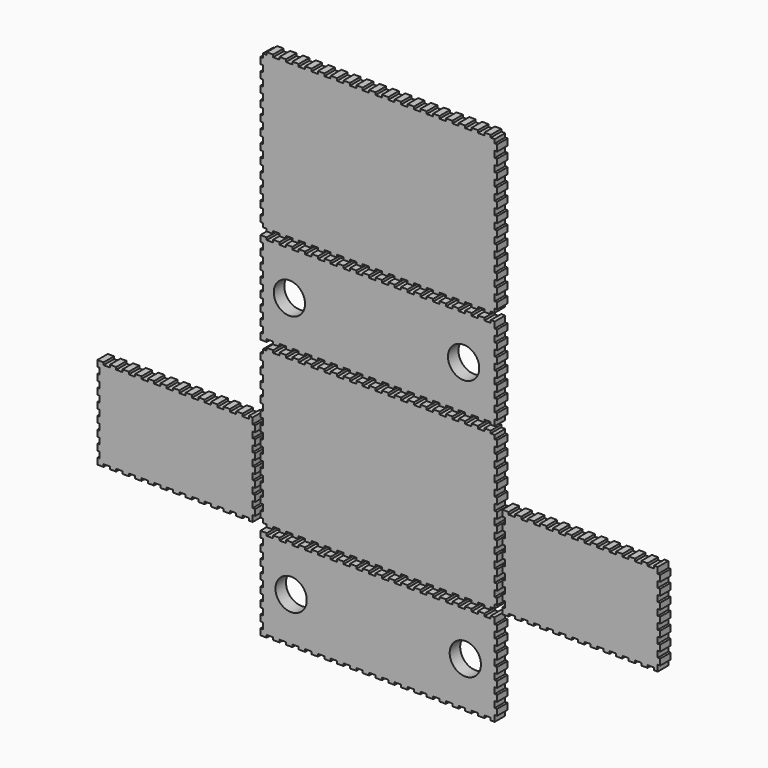
from build123d import *

# Parameters (mm, degrees)
F1_DEPTH = 25.4
F2_R     = 30.1625
F3_DEPTH = 25.4
F4_R     = 30.1625
F5_DEPTH = 314.96


with BuildPart() as f1:
    # F0 (on Front) → F1 (new body)
    with BuildSketch(Plane.XZ):
        Polygon((-228.600229, -485.748533), (-228.600229, -497.601011), (-216.243129, -497.601011), (-216.243129, -492.838511), (-203.886029, -492.838511), (-203.886029, -497.601011), (-191.531469, -497.601011), (-191.531469, -492.838511), (-179.174369, -492.838511), (-179.174369, -497.601011), (-166.814729, -497.601011), (-166.814729, -492.838511), (-154.457629, -492.838511), (-154.457629, -497.601011), (-142.103069, -497.601011), (-142.103069, -492.838511), (-129.745969, -492.838511), (-129.745969, -497.601011), (-117.388869, -497.601011), (-117.388869, -492.838511), (-105.034309, -492.838511), (-105.034309, -497.601011), (-92.677209, -497.601011), (-92.677209, -492.838511), (-80.317569, -492.838511), (-80.317569, -497.601011), (-67.963009, -497.601011), (-67.963009, -492.838511), (-55.605909, -492.838511), (-55.605909, -497.601011), (-43.248809, -497.601011), (-43.248809, -492.838511), (-30.889169, -492.838511), (-30.889169, -497.601011), (-18.537149, -497.601011), (-18.537149, -492.838511), (-6.177509, -492.838511), (-6.177509, -497.601011), (6.179591, -497.601011), (6.179591, -492.838511), (18.534151, -492.838511), (18.534151, -497.601011), (30.891251, -497.601011), (30.891251, -492.838511), (43.248351, -492.838511), (43.248351, -497.601011), (55.607991, -497.601011), (55.607991, -492.838511), (67.962551, -492.838511), (67.962551, -497.601011), (80.319651, -497.601011), (80.319651, -492.838511), (92.674211, -492.838511), (92.674211, -497.601011), (105.031311, -497.601011), (105.031311, -492.838511), (117.388411, -492.838511), (117.388411, -497.601011), (129.748051, -497.601011), (129.748051, -492.838511), (142.100071, -492.838511), (142.100071, -497.601011), (154.459711, -497.601011), (154.459711, -492.838511), (166.816811, -492.838511), (166.816811, -497.601011), (179.173911, -497.601011), (179.173911, -492.838511), (191.528471, -492.838511), (191.528471, -497.601011), (203.885571, -497.601011), (203.885571, -492.838511), (216.245211, -492.838511), (216.245211, -497.601011), (223.837271, -497.601011), (223.837271, -485.748533), (228.599771, -485.748533), (228.599771, -473.894633), (223.837271, -473.894633), (223.837271, -462.041977), (228.599771, -462.041977), (228.599771, -450.188305), (223.837271, -450.188305), (223.837271, -438.334125), (228.599771, -438.334125), (228.599771, -426.481977), (223.837271, -426.481977), (223.837271, -414.628051), (228.599771, -414.628051), (228.599771, -402.775395), (223.837271, -402.775395), (223.837271, -390.921723), (228.599771, -390.921723), (228.599771, -379.067543), (223.837271, -379.067543), (223.837271, -367.215395), (228.599771, -367.215395), (228.599771, -355.361215), (223.837271, -355.361215), (223.837271, -343.508559), (228.599771, -343.508559), (228.599771, -331.654887), (223.837271, -331.654887), (223.837271, -319.800961), (216.245211, -319.800961), (216.245211, -324.563461), (203.885571, -324.563461), (203.885571, -319.800961), (191.528471, -319.800961), (191.528471, -324.563461), (179.173911, -324.563461), (179.173911, -319.800961), (166.816811, -319.800961), (166.816811, -324.563461), (154.459711, -324.563461), (154.459711, -319.800961), (142.100071, -319.800961), (142.100071, -324.563461), (129.748051, -324.563461), (129.748051, -319.800961), (117.388411, -319.800961), (117.388411, -324.563461), (105.031311, -324.563461), (105.031311, -319.800961), (92.674211, -319.800961), (92.674211, -324.563461), (80.319651, -324.563461), (80.319651, -319.800961), (67.962551, -319.800961), (67.962551, -324.563461), (55.607991, -324.563461), (55.607991, -319.800961), (43.248351, -319.800961), (43.248351, -324.563461), (30.891251, -324.563461), (30.891251, -319.800961), (18.534151, -319.800961), (18.534151, -324.563461), (6.179591, -324.563461), (6.179591, -319.800961), (-6.177509, -319.800961), (-6.177509, -324.563461), (-18.537149, -324.563461), (-18.537149, -319.800961), (-30.889169, -319.800961), (-30.889169, -324.563461), (-43.248809, -324.563461), (-43.248809, -319.800961), (-55.605909, -319.800961), (-55.605909, -324.563461), (-67.963009, -324.563461), (-67.963009, -319.800961), (-80.317569, -319.800961), (-80.317569, -324.563461), (-92.677209, -324.563461), (-92.677209, -319.800961), (-105.034309, -319.800961), (-105.034309, -324.563461), (-117.388869, -324.563461), (-117.388869, -319.800961), (-129.745969, -319.800961), (-129.745969, -324.563461), (-142.103069, -324.563461), (-142.103069, -319.800961), (-154.457629, -319.800961), (-154.457629, -324.563461), (-166.814729, -324.563461), (-166.814729, -319.800961), (-179.174369, -319.800961), (-179.174369, -324.563461), (-191.531469, -324.563461), (-191.531469, -319.800961), (-203.886029, -319.800961), (-203.886029, -324.563461), (-216.243129, -324.563461), (-216.243129, -319.800961), (-228.600229, -319.800961), (-228.600229, -331.654887), (-223.837729, -331.654887), (-223.837729, -343.508559), (-228.600229, -343.508559), (-228.600229, -355.361215), (-223.837729, -355.361215), (-223.837729, -367.215395), (-228.600229, -367.215395), (-228.600229, -379.067543), (-223.837729, -379.067543), (-223.837729, -390.921723), (-228.600229, -390.921723), (-228.600229, -402.775395), (-223.837729, -402.775395), (-223.837729, -414.628051), (-228.600229, -414.628051), (-228.600229, -426.481977), (-223.837729, -426.481977), (-223.837729, -438.334125), (-228.600229, -438.334125), (-228.600229, -450.188305), (-223.837729, -450.188305), (-223.837729, -462.041977), (-228.600229, -462.041977), (-228.600229, -473.894633), (-223.837729, -473.894633), (-223.837729, -485.748533), align=None)
        Polygon((-543.399751, -297.948071), (-543.399751, -309.802251), (-531.208234, -309.802251), (-531.208234, -305.039751), (-519.016717, -305.039751), (-519.016717, -309.802251), (-506.823955, -309.802251), (-506.823955, -305.039751), (-494.632463, -305.039751), (-494.632463, -309.802251), (-482.439701, -309.802251), (-482.439701, -305.039751), (-470.247955, -305.039751), (-470.247955, -309.802251), (-458.056463, -309.802251), (-458.056463, -305.039751), (-445.863701, -305.039751), (-445.863701, -309.802251), (-433.671955, -309.802251), (-433.671955, -305.039751), (-421.480717, -305.039751), (-421.480717, -309.802251), (-409.287701, -309.802251), (-409.287701, -305.039751), (-397.096463, -305.039751), (-397.096463, -309.802251), (-384.904717, -309.802251), (-384.904717, -305.039751), (-372.711701, -305.039751), (-372.711701, -309.802251), (-360.520463, -309.802251), (-360.520463, -305.039751), (-348.328717, -305.039751), (-348.328717, -309.802251), (-336.135955, -309.802251), (-336.135955, -305.039751), (-323.944463, -305.039751), (-323.944463, -309.802251), (-311.751701, -309.802251), (-311.751701, -305.039751), (-299.559955, -305.039751), (-299.559955, -309.802251), (-287.368209, -309.802251), (-287.368209, -305.039751), (-275.176209, -305.039751), (-275.176209, -309.802251), (-262.984209, -309.802251), (-262.984209, -305.039751), (-250.792209, -305.039751), (-250.792209, -309.802251), (-243.362709, -309.802251), (-243.362709, -297.948071), (-238.600209, -297.948071), (-238.600209, -286.094145), (-243.362709, -286.094145), (-243.362709, -274.241743), (-238.600209, -274.241743), (-238.600209, -262.387817), (-243.362709, -262.387817), (-243.362709, -250.535669), (-238.600209, -250.535669), (-238.600209, -238.681489), (-243.362709, -238.681489), (-243.362709, -226.827309), (-238.600209, -226.827309), (-238.600209, -214.975669), (-243.362709, -214.975669), (-243.362709, -203.121489), (-238.600209, -203.121489), (-238.600209, -191.269849), (-243.362709, -191.269849), (-243.362709, -179.415669), (-238.600209, -179.415669), (-238.600209, -167.561489), (-243.362709, -167.561489), (-243.362709, -155.707309), (-238.600209, -155.707309), (-238.600209, -143.855669), (-243.362709, -143.855669), (-243.362709, -132.001489), (-250.792209, -132.001489), (-250.792209, -136.763989), (-262.984209, -136.763989), (-262.984209, -132.001489), (-275.176209, -132.001489), (-275.176209, -136.763989), (-287.368209, -136.763989), (-287.368209, -132.001489), (-299.559955, -132.001489), (-299.559955, -136.763989), (-311.751701, -136.763989), (-311.751701, -132.001489), (-323.944463, -132.001489), (-323.944463, -136.763989), (-336.135955, -136.763989), (-336.135955, -132.001489), (-348.328717, -132.001489), (-348.328717, -136.763989), (-360.520463, -136.763989), (-360.520463, -132.001489), (-372.711701, -132.001489), (-372.711701, -136.763989), (-384.904717, -136.763989), (-384.904717, -132.001489), (-397.096463, -132.001489), (-397.096463, -136.763989), (-409.287701, -136.763989), (-409.287701, -132.001489), (-421.480717, -132.001489), (-421.480717, -136.763989), (-433.671955, -136.763989), (-433.671955, -132.001489), (-445.863701, -132.001489), (-445.863701, -136.763989), (-458.056463, -136.763989), (-458.056463, -132.001489), (-470.247955, -132.001489), (-470.247955, -136.763989), (-482.439701, -136.763989), (-482.439701, -132.001489), (-494.632463, -132.001489), (-494.632463, -136.763989), (-506.823955, -136.763989), (-506.823955, -132.001489), (-519.016717, -132.001489), (-519.016717, -136.763989), (-531.208234, -136.763989), (-531.208234, -132.001489), (-543.399751, -132.001489), (-543.399751, -143.855669), (-538.637251, -143.855669), (-538.637251, -155.707309), (-543.399751, -155.707309), (-543.399751, -167.561489), (-538.637251, -167.561489), (-538.637251, -179.415669), (-543.399751, -179.415669), (-543.399751, -191.269849), (-538.637251, -191.269849), (-538.637251, -203.121489), (-543.399751, -203.121489), (-543.399751, -214.975669), (-538.637251, -214.975669), (-538.637251, -226.827309), (-543.399751, -226.827309), (-543.399751, -238.681489), (-538.637251, -238.681489), (-538.637251, -250.535669), (-543.399751, -250.535669), (-543.399751, -262.387817), (-538.637251, -262.387817), (-538.637251, -274.241743), (-543.399751, -274.241743), (-543.399751, -286.094145), (-538.637251, -286.094145), (-538.637251, -297.948071), align=None)
        Polygon((-223.837729, -297.608981), (-223.837729, -305.039751), (-216.243129, -305.039751), (-216.243129, -309.802251), (-203.886029, -309.802251), (-203.886029, -305.039751), (-191.531469, -305.039751), (-191.531469, -309.802251), (-179.174369, -309.802251), (-179.174369, -305.039751), (-166.814729, -305.039751), (-166.814729, -309.802251), (-154.457629, -309.802251), (-154.457629, -305.039751), (-142.103069, -305.039751), (-142.103069, -309.802251), (-129.745969, -309.802251), (-129.745969, -305.039751), (-117.388869, -305.039751), (-117.388869, -309.802251), (-105.034309, -309.802251), (-105.034309, -305.039751), (-92.677209, -305.039751), (-92.677209, -309.802251), (-80.317569, -309.802251), (-80.317569, -305.039751), (-67.963009, -305.039751), (-67.963009, -309.802251), (-55.605909, -309.802251), (-55.605909, -305.039751), (-43.248809, -305.039751), (-43.248809, -309.802251), (-30.889169, -309.802251), (-30.889169, -305.039751), (-18.537149, -305.039751), (-18.537149, -309.802251), (-6.177509, -309.802251), (-6.177509, -305.039751), (6.179591, -305.039751), (6.179591, -309.802251), (18.534151, -309.802251), (18.534151, -305.039751), (30.891251, -305.039751), (30.891251, -309.802251), (43.248351, -309.802251), (43.248351, -305.039751), (55.607991, -305.039751), (55.607991, -309.802251), (67.962551, -309.802251), (67.962551, -305.039751), (80.319651, -305.039751), (80.319651, -309.802251), (92.674211, -309.802251), (92.674211, -305.039751), (105.031311, -305.039751), (105.031311, -309.802251), (117.388411, -309.802251), (117.388411, -305.039751), (129.748051, -305.039751), (129.748051, -309.802251), (142.100071, -309.802251), (142.100071, -305.039751), (154.459711, -305.039751), (154.459711, -309.802251), (166.816811, -309.802251), (166.816811, -305.039751), (179.173911, -305.039751), (179.173911, -309.802251), (191.528471, -309.802251), (191.528471, -305.039751), (203.885571, -305.039751), (203.885571, -309.802251), (216.245211, -309.802251), (216.245211, -305.039751), (223.837271, -305.039751), (223.837271, -297.608981), (228.599771, -297.608981), (228.599771, -285.417489), (223.837271, -285.417489), (223.837271, -273.226251), (228.599771, -273.226251), (228.599771, -261.032981), (223.837271, -261.032981), (223.837271, -248.841489), (228.599771, -248.841489), (228.599771, -236.649489), (223.837271, -236.649489), (223.837271, -224.457489), (228.599771, -224.457489), (228.599771, -212.265489), (223.837271, -212.265489), (223.837271, -200.073489), (228.599771, -200.073489), (228.599771, -187.881489), (223.837271, -187.881489), (223.837271, -175.689489), (228.599771, -175.689489), (228.599771, -163.497489), (223.837271, -163.497489), (223.837271, -151.305489), (228.599771, -151.305489), (228.599771, -139.113489), (223.837271, -139.113489), (223.837271, -126.921489), (228.599771, -126.921489), (228.599771, -114.729489), (223.837271, -114.729489), (223.837271, -102.537489), (228.599771, -102.537489), (228.599771, -90.345489), (223.837271, -90.345489), (223.837271, -78.153489), (228.599771, -78.153489), (228.599771, -65.961489), (223.837271, -65.961489), (223.837271, -53.769489), (228.599771, -53.769489), (228.599771, -41.577489), (223.837271, -41.577489), (223.837271, -29.385489), (228.599771, -29.385489), (228.599771, -17.193489), (223.837271, -17.193489), (223.837271, -9.763989), (216.245211, -9.763989), (216.245211, -5.001489), (203.885571, -5.001489), (203.885571, -9.763989), (191.528471, -9.763989), (191.528471, -5.001489), (179.173911, -5.001489), (179.173911, -9.763989), (166.816811, -9.763989), (166.816811, -5.001489), (154.459711, -5.001489), (154.459711, -9.763989), (142.100071, -9.763989), (142.100071, -5.001489), (129.748051, -5.001489), (129.748051, -9.763989), (117.388411, -9.763989), (117.388411, -5.001489), (105.031311, -5.001489), (105.031311, -9.763989), (92.674211, -9.763989), (92.674211, -5.001489), (80.319651, -5.001489), (80.319651, -9.763989), (67.962551, -9.763989), (67.962551, -5.001489), (55.607991, -5.001489), (55.607991, -9.763989), (43.248351, -9.763989), (43.248351, -5.001489), (30.891251, -5.001489), (30.891251, -9.763989), (18.534151, -9.763989), (18.534151, -5.001489), (6.179591, -5.001489), (6.179591, -9.763989), (-6.177509, -9.763989), (-6.177509, -5.001489), (-18.537149, -5.001489), (-18.537149, -9.763989), (-30.889169, -9.763989), (-30.889169, -5.001489), (-43.248809, -5.001489), (-43.248809, -9.763989), (-55.605909, -9.763989), (-55.605909, -5.001489), (-67.963009, -5.001489), (-67.963009, -9.763989), (-80.317569, -9.763989), (-80.317569, -5.001489), (-92.677209, -5.001489), (-92.677209, -9.763989), (-105.034309, -9.763989), (-105.034309, -5.001489), (-117.388869, -5.001489), (-117.388869, -9.763989), (-129.745969, -9.763989), (-129.745969, -5.001489), (-142.103069, -5.001489), (-142.103069, -9.763989), (-154.457629, -9.763989), (-154.457629, -5.001489), (-166.814729, -5.001489), (-166.814729, -9.763989), (-179.174369, -9.763989), (-179.174369, -5.001489), (-191.531469, -5.001489), (-191.531469, -9.763989), (-203.886029, -9.763989), (-203.886029, -5.001489), (-216.243129, -5.001489), (-216.243129, -9.763989), (-223.837729, -9.763989), (-223.837729, -17.193489), (-228.600229, -17.193489), (-228.600229, -29.385489), (-223.837729, -29.385489), (-223.837729, -41.577489), (-228.600229, -41.577489), (-228.600229, -53.769489), (-223.837729, -53.769489), (-223.837729, -65.961489), (-228.600229, -65.961489), (-228.600229, -78.153489), (-223.837729, -78.153489), (-223.837729, -90.345489), (-228.600229, -90.345489), (-228.600229, -102.537489), (-223.837729, -102.537489), (-223.837729, -114.729489), (-228.600229, -114.729489), (-228.600229, -126.921489), (-223.837729, -126.921489), (-223.837729, -139.113489), (-228.600229, -139.113489), (-228.600229, -151.305489), (-223.837729, -151.305489), (-223.837729, -163.497489), (-228.600229, -163.497489), (-228.600229, -175.689489), (-223.837729, -175.689489), (-223.837729, -187.881489), (-228.600229, -187.881489), (-228.600229, -200.073489), (-223.837729, -200.073489), (-223.837729, -212.265489), (-228.600229, -212.265489), (-228.600229, -224.457489), (-223.837729, -224.457489), (-223.837729, -236.649489), (-228.600229, -236.649489), (-228.600229, -248.841489), (-223.837729, -248.841489), (-223.837729, -261.032981), (-228.600229, -261.032981), (-228.600229, -273.226251), (-223.837729, -273.226251), (-223.837729, -285.417489), (-228.600229, -285.417489), (-228.600229, -297.608981), align=None)
        Polygon((238.599751, -297.948071), (238.599751, -309.802251), (250.791751, -309.802251), (250.791751, -305.039751), (262.983751, -305.039751), (262.983751, -309.802251), (275.175751, -309.802251), (275.175751, -305.039751), (287.367751, -305.039751), (287.367751, -309.802251), (299.559751, -309.802251), (299.559751, -305.039751), (311.751751, -305.039751), (311.751751, -309.802251), (323.943751, -309.802251), (323.943751, -305.039751), (336.135751, -305.039751), (336.135751, -309.802251), (348.327751, -309.802251), (348.327751, -305.039751), (360.519751, -305.039751), (360.519751, -309.802251), (372.711751, -309.802251), (372.711751, -305.039751), (384.903751, -305.039751), (384.903751, -309.802251), (397.095751, -309.802251), (397.095751, -305.039751), (409.287751, -305.039751), (409.287751, -309.802251), (421.479751, -309.802251), (421.479751, -305.039751), (433.671751, -305.039751), (433.671751, -309.802251), (445.863751, -309.802251), (445.863751, -305.039751), (458.055751, -305.039751), (458.055751, -309.802251), (470.247751, -309.802251), (470.247751, -305.039751), (482.439751, -305.039751), (482.439751, -309.802251), (494.631751, -309.802251), (494.631751, -305.039751), (506.823751, -305.039751), (506.823751, -309.802251), (519.015751, -309.802251), (519.015751, -305.039751), (531.207751, -305.039751), (531.207751, -309.802251), (538.637251, -309.802251), (538.637251, -297.948071), (543.399751, -297.948071), (543.399751, -286.094145), (538.637251, -286.094145), (538.637251, -274.241743), (543.399751, -274.241743), (543.399751, -262.387817), (538.637251, -262.387817), (538.637251, -250.535669), (543.399751, -250.535669), (543.399751, -238.681489), (538.637251, -238.681489), (538.637251, -226.827309), (543.399751, -226.827309), (543.399751, -214.975669), (538.637251, -214.975669), (538.637251, -203.121489), (543.399751, -203.121489), (543.399751, -191.269849), (538.637251, -191.269849), (538.637251, -179.415669), (543.399751, -179.415669), (543.399751, -167.561489), (538.637251, -167.561489), (538.637251, -155.707309), (543.399751, -155.707309), (543.399751, -143.855669), (538.637251, -143.855669), (538.637251, -132.001489), (531.207751, -132.001489), (531.207751, -136.763989), (519.015751, -136.763989), (519.015751, -132.001489), (506.823751, -132.001489), (506.823751, -136.763989), (494.631751, -136.763989), (494.631751, -132.001489), (482.439751, -132.001489), (482.439751, -136.763989), (470.247751, -136.763989), (470.247751, -132.001489), (458.055751, -132.001489), (458.055751, -136.763989), (445.863751, -136.763989), (445.863751, -132.001489), (433.671751, -132.001489), (433.671751, -136.763989), (421.479751, -136.763989), (421.479751, -132.001489), (409.287751, -132.001489), (409.287751, -136.763989), (397.095751, -136.763989), (397.095751, -132.001489), (384.903751, -132.001489), (384.903751, -136.763989), (372.711751, -136.763989), (372.711751, -132.001489), (360.519751, -132.001489), (360.519751, -136.763989), (348.327751, -136.763989), (348.327751, -132.001489), (336.135751, -132.001489), (336.135751, -136.763989), (323.943751, -136.763989), (323.943751, -132.001489), (311.751751, -132.001489), (311.751751, -136.763989), (299.559751, -136.763989), (299.559751, -132.001489), (287.367751, -132.001489), (287.367751, -136.763989), (275.175751, -136.763989), (275.175751, -132.001489), (262.983751, -132.001489), (262.983751, -136.763989), (250.791751, -136.763989), (250.791751, -132.001489), (238.599751, -132.001489), (238.599751, -143.855669), (243.362251, -143.855669), (243.362251, -155.707309), (238.599751, -155.707309), (238.599751, -167.561489), (243.362251, -167.561489), (243.362251, -179.415669), (238.599751, -179.415669), (238.599751, -191.269849), (243.362251, -191.269849), (243.362251, -203.121489), (238.599751, -203.121489), (238.599751, -214.975669), (243.362251, -214.975669), (243.362251, -226.827309), (238.599751, -226.827309), (238.599751, -238.681489), (243.362251, -238.681489), (243.362251, -250.535669), (238.599751, -250.535669), (238.599751, -262.387817), (243.362251, -262.387817), (243.362251, -274.241743), (238.599751, -274.241743), (238.599751, -286.094145), (243.362251, -286.094145), (243.362251, -297.948071), align=None)
        Polygon((-228.600229, 16.852671), (-228.600229, 4.998491), (-216.243129, 4.998491), (-216.243129, 9.760991), (-203.886029, 9.760991), (-203.886029, 4.998491), (-191.531469, 4.998491), (-191.531469, 9.760991), (-179.174369, 9.760991), (-179.174369, 4.998491), (-166.814729, 4.998491), (-166.814729, 9.760991), (-154.457629, 9.760991), (-154.457629, 4.998491), (-142.103069, 4.998491), (-142.103069, 9.760991), (-129.745969, 9.760991), (-129.745969, 4.998491), (-117.388869, 4.998491), (-117.388869, 9.760991), (-105.034309, 9.760991), (-105.034309, 4.998491), (-92.677209, 4.998491), (-92.677209, 9.760991), (-80.317569, 9.760991), (-80.317569, 4.998491), (-67.963009, 4.998491), (-67.963009, 9.760991), (-55.605909, 9.760991), (-55.605909, 4.998491), (-43.248809, 4.998491), (-43.248809, 9.760991), (-30.889169, 9.760991), (-30.889169, 4.998491), (-18.537149, 4.998491), (-18.537149, 9.760991), (-6.177509, 9.760991), (-6.177509, 4.998491), (6.179591, 4.998491), (6.179591, 9.760991), (18.534151, 9.760991), (18.534151, 4.998491), (30.891251, 4.998491), (30.891251, 9.760991), (43.248351, 9.760991), (43.248351, 4.998491), (55.607991, 4.998491), (55.607991, 9.760991), (67.962551, 9.760991), (67.962551, 4.998491), (80.319651, 4.998491), (80.319651, 9.760991), (92.674211, 9.760991), (92.674211, 4.998491), (105.031311, 4.998491), (105.031311, 9.760991), (117.388411, 9.760991), (117.388411, 4.998491), (129.748051, 4.998491), (129.748051, 9.760991), (142.100071, 9.760991), (142.100071, 4.998491), (154.459711, 4.998491), (154.459711, 9.760991), (166.816811, 9.760991), (166.816811, 4.998491), (179.173911, 4.998491), (179.173911, 9.760991), (191.528471, 9.760991), (191.528471, 4.998491), (203.885571, 4.998491), (203.885571, 9.760991), (216.245211, 9.760991), (216.245211, 4.998491), (223.837271, 4.998491), (223.837271, 16.852671), (228.599771, 16.852671), (228.599771, 28.704311), (223.837271, 28.704311), (223.837271, 40.558491), (228.599771, 40.558491), (228.599771, 52.412671), (223.837271, 52.412671), (223.837271, 64.264311), (228.599771, 64.264311), (228.599771, 76.118491), (223.837271, 76.118491), (223.837271, 87.972671), (228.599771, 87.972671), (228.599771, 99.824311), (223.837271, 99.824311), (223.837271, 111.678491), (228.599771, 111.678491), (228.599771, 123.532671), (223.837271, 123.532671), (223.837271, 135.384311), (228.599771, 135.384311), (228.599771, 147.238491), (223.837271, 147.238491), (223.837271, 159.092671), (228.599771, 159.092671), (228.599771, 170.944311), (223.837271, 170.944311), (223.837271, 182.798491), (216.245211, 182.798491), (216.245211, 178.035991), (203.885571, 178.035991), (203.885571, 182.798491), (191.528471, 182.798491), (191.528471, 178.035991), (179.173911, 178.035991), (179.173911, 182.798491), (166.816811, 182.798491), (166.816811, 178.035991), (154.459711, 178.035991), (154.459711, 182.798491), (142.100071, 182.798491), (142.100071, 178.035991), (129.748051, 178.035991), (129.748051, 182.798491), (117.388411, 182.798491), (117.388411, 178.035991), (105.031311, 178.035991), (105.031311, 182.798491), (92.674211, 182.798491), (92.674211, 178.035991), (80.319651, 178.035991), (80.319651, 182.798491), (67.962551, 182.798491), (67.962551, 178.035991), (55.607991, 178.035991), (55.607991, 182.798491), (43.248351, 182.798491), (43.248351, 178.035991), (30.891251, 178.035991), (30.891251, 182.798491), (18.534151, 182.798491), (18.534151, 178.035991), (6.179591, 178.035991), (6.179591, 182.798491), (-6.177509, 182.798491), (-6.177509, 178.035991), (-18.537149, 178.035991), (-18.537149, 182.798491), (-30.889169, 182.798491), (-30.889169, 178.035991), (-43.248809, 178.035991), (-43.248809, 182.798491), (-55.605909, 182.798491), (-55.605909, 178.035991), (-67.963009, 178.035991), (-67.963009, 182.798491), (-80.317569, 182.798491), (-80.317569, 178.035991), (-92.677209, 178.035991), (-92.677209, 182.798491), (-105.034309, 182.798491), (-105.034309, 178.035991), (-117.388869, 178.035991), (-117.388869, 182.798491), (-129.745969, 182.798491), (-129.745969, 178.035991), (-142.103069, 178.035991), (-142.103069, 182.798491), (-154.457629, 182.798491), (-154.457629, 178.035991), (-166.814729, 178.035991), (-166.814729, 182.798491), (-179.174369, 182.798491), (-179.174369, 178.035991), (-191.531469, 178.035991), (-191.531469, 182.798491), (-203.886029, 182.798491), (-203.886029, 178.035991), (-216.243129, 178.035991), (-216.243129, 182.798491), (-228.600229, 182.798491), (-228.600229, 170.944311), (-223.837729, 170.944311), (-223.837729, 159.092671), (-228.600229, 159.092671), (-228.600229, 147.238491), (-223.837729, 147.238491), (-223.837729, 135.384311), (-228.600229, 135.384311), (-228.600229, 123.532671), (-223.837729, 123.532671), (-223.837729, 111.678491), (-228.600229, 111.678491), (-228.600229, 99.824311), (-223.837729, 99.824311), (-223.837729, 87.972671), (-228.600229, 87.972671), (-228.600229, 76.118491), (-223.837729, 76.118491), (-223.837729, 64.264311), (-228.600229, 64.264311), (-228.600229, 52.412671), (-223.837729, 52.412671), (-223.837729, 40.558491), (-228.600229, 40.558491), (-228.600229, 28.704311), (-223.837729, 28.704311), (-223.837729, 16.852671), align=None)
        Polygon((-223.837729, 204.993011), (-223.837729, 197.563511), (-216.243129, 197.563511), (-216.243129, 192.801011), (-203.886029, 192.801011), (-203.886029, 197.563511), (-191.531469, 197.563511), (-191.531469, 192.801011), (-179.174369, 192.801011), (-179.174369, 197.563511), (-166.814729, 197.563511), (-166.814729, 192.801011), (-154.457629, 192.801011), (-154.457629, 197.563511), (-142.103069, 197.563511), (-142.103069, 192.801011), (-129.745969, 192.801011), (-129.745969, 197.563511), (-117.388869, 197.563511), (-117.388869, 192.801011), (-105.034309, 192.801011), (-105.034309, 197.563511), (-92.677209, 197.563511), (-92.677209, 192.801011), (-80.317569, 192.801011), (-80.317569, 197.563511), (-67.963009, 197.563511), (-67.963009, 192.801011), (-55.605909, 192.801011), (-55.605909, 197.563511), (-43.248809, 197.563511), (-43.248809, 192.801011), (-30.889169, 192.801011), (-30.889169, 197.563511), (-18.537149, 197.563511), (-18.537149, 192.801011), (-6.177509, 192.801011), (-6.177509, 197.563511), (6.179591, 197.563511), (6.179591, 192.801011), (18.534151, 192.801011), (18.534151, 197.563511), (30.891251, 197.563511), (30.891251, 192.801011), (43.248351, 192.801011), (43.248351, 197.563511), (55.607991, 197.563511), (55.607991, 192.801011), (67.962551, 192.801011), (67.962551, 197.563511), (80.319651, 197.563511), (80.319651, 192.801011), (92.674211, 192.801011), (92.674211, 197.563511), (105.031311, 197.563511), (105.031311, 192.801011), (117.388411, 192.801011), (117.388411, 197.563511), (129.748051, 197.563511), (129.748051, 192.801011), (142.100071, 192.801011), (142.100071, 197.563511), (154.459711, 197.563511), (154.459711, 192.801011), (166.816811, 192.801011), (166.816811, 197.563511), (179.173911, 197.563511), (179.173911, 192.801011), (191.528471, 192.801011), (191.528471, 197.563511), (203.885571, 197.563511), (203.885571, 192.801011), (216.245211, 192.801011), (216.245211, 197.563511), (223.837271, 197.563511), (223.837271, 204.993011), (228.599771, 204.993011), (228.599771, 217.185011), (223.837271, 217.185011), (223.837271, 229.377011), (228.599771, 229.377011), (228.599771, 241.569011), (223.837271, 241.569011), (223.837271, 253.761011), (228.599771, 253.761011), (228.599771, 265.953011), (223.837271, 265.953011), (223.837271, 278.139931), (228.599771, 278.139931), (228.599771, 290.337011), (223.837271, 290.337011), (223.837271, 302.529011), (228.599771, 302.529011), (228.599771, 314.715931), (223.837271, 314.715931), (223.837271, 326.913011), (228.599771, 326.913011), (228.599771, 339.105011), (223.837271, 339.105011), (223.837271, 351.291931), (228.599771, 351.291931), (228.599771, 363.489011), (223.837271, 363.489011), (223.837271, 375.681011), (228.599771, 375.681011), (228.599771, 387.873011), (223.837271, 387.873011), (223.837271, 400.065011), (228.599771, 400.065011), (228.599771, 412.251931), (223.837271, 412.251931), (223.837271, 424.449011), (228.599771, 424.449011), (228.599771, 436.641011), (223.837271, 436.641011), (223.837271, 448.827931), (228.599771, 448.827931), (228.599771, 461.025011), (223.837271, 461.025011), (223.837271, 473.217011), (228.599771, 473.217011), (228.599771, 485.403931), (223.837271, 485.403931), (223.837271, 492.838511), (216.245211, 492.838511), (216.245211, 497.601011), (203.885571, 497.601011), (203.885571, 492.838511), (191.528471, 492.838511), (191.528471, 497.601011), (179.173911, 497.601011), (179.173911, 492.838511), (166.816811, 492.838511), (166.816811, 497.601011), (154.459711, 497.601011), (154.459711, 492.838511), (142.100071, 492.838511), (142.100071, 497.601011), (129.748051, 497.601011), (129.748051, 492.838511), (117.388411, 492.838511), (117.388411, 497.601011), (105.031311, 497.601011), (105.031311, 492.838511), (92.674211, 492.838511), (92.674211, 497.601011), (80.319651, 497.601011), (80.319651, 492.838511), (67.962551, 492.838511), (67.962551, 497.601011), (55.607991, 497.601011), (55.607991, 492.838511), (43.248351, 492.838511), (43.248351, 497.601011), (30.891251, 497.601011), (30.891251, 492.838511), (18.534151, 492.838511), (18.534151, 497.601011), (6.179591, 497.601011), (6.179591, 492.838511), (-6.177509, 492.838511), (-6.177509, 497.601011), (-18.537149, 497.601011), (-18.537149, 492.838511), (-30.889169, 492.838511), (-30.889169, 497.601011), (-43.248809, 497.601011), (-43.248809, 492.838511), (-55.605909, 492.838511), (-55.605909, 497.601011), (-67.963009, 497.601011), (-67.963009, 492.838511), (-80.317569, 492.838511), (-80.317569, 497.601011), (-92.677209, 497.601011), (-92.677209, 492.838511), (-105.034309, 492.838511), (-105.034309, 497.601011), (-117.388869, 497.601011), (-117.388869, 492.838511), (-129.745969, 492.838511), (-129.745969, 497.601011), (-142.103069, 497.601011), (-142.103069, 492.838511), (-154.457629, 492.838511), (-154.457629, 497.601011), (-166.814729, 497.601011), (-166.814729, 492.838511), (-179.174369, 492.838511), (-179.174369, 497.601011), (-191.531469, 497.601011), (-191.531469, 492.838511), (-203.886029, 492.838511), (-203.886029, 497.601011), (-216.243129, 497.601011), (-216.243129, 492.838511), (-223.837729, 492.838511), (-223.837729, 485.403931), (-228.600229, 485.403931), (-228.600229, 473.217011), (-223.837729, 473.217011), (-223.837729, 461.025011), (-228.600229, 461.025011), (-228.600229, 448.827931), (-223.837729, 448.827931), (-223.837729, 436.641011), (-228.600229, 436.641011), (-228.600229, 424.449011), (-223.837729, 424.449011), (-223.837729, 412.251931), (-228.600229, 412.251931), (-228.600229, 400.065011), (-223.837729, 400.065011), (-223.837729, 387.873011), (-228.600229, 387.873011), (-228.600229, 375.681011), (-223.837729, 375.681011), (-223.837729, 363.489011), (-228.600229, 363.489011), (-228.600229, 351.291931), (-223.837729, 351.291931), (-223.837729, 339.105011), (-228.600229, 339.105011), (-228.600229, 326.913011), (-223.837729, 326.913011), (-223.837729, 314.715931), (-228.600229, 314.715931), (-228.600229, 302.529011), (-223.837729, 302.529011), (-223.837729, 290.337011), (-228.600229, 290.337011), (-228.600229, 278.139931), (-223.837729, 278.139931), (-223.837729, 265.953011), (-228.600229, 265.953011), (-228.600229, 253.761011), (-223.837729, 253.761011), (-223.837729, 241.569011), (-228.600229, 241.569011), (-228.600229, 229.377011), (-223.837729, 229.377011), (-223.837729, 217.185011), (-228.600229, 217.185011), (-228.600229, 204.993011), align=None)
    extrude(amount=F1_DEPTH)

    # F2 (on face) → F3 (cut)
    with BuildSketch(Plane.XZ.offset(25.4)):
        with Locations((-172.488913, 93.898491)):
            Circle(F2_R)
        with Locations((163.832487, 93.898491)):
            Circle(F2_R)
    extrude(amount=-F3_DEPTH, mode=Mode.SUBTRACT)

    # F4 (on face) → F5 (cut)
    with BuildSketch(Plane.XZ.offset(25.4)):
        with Locations((-169.190079, -408.701723)):
            Circle(F4_R)
        with Locations((167.131321, -408.701723)):
            Circle(F4_R)
    extrude(amount=-F5_DEPTH, mode=Mode.SUBTRACT)


solid = f1.part
